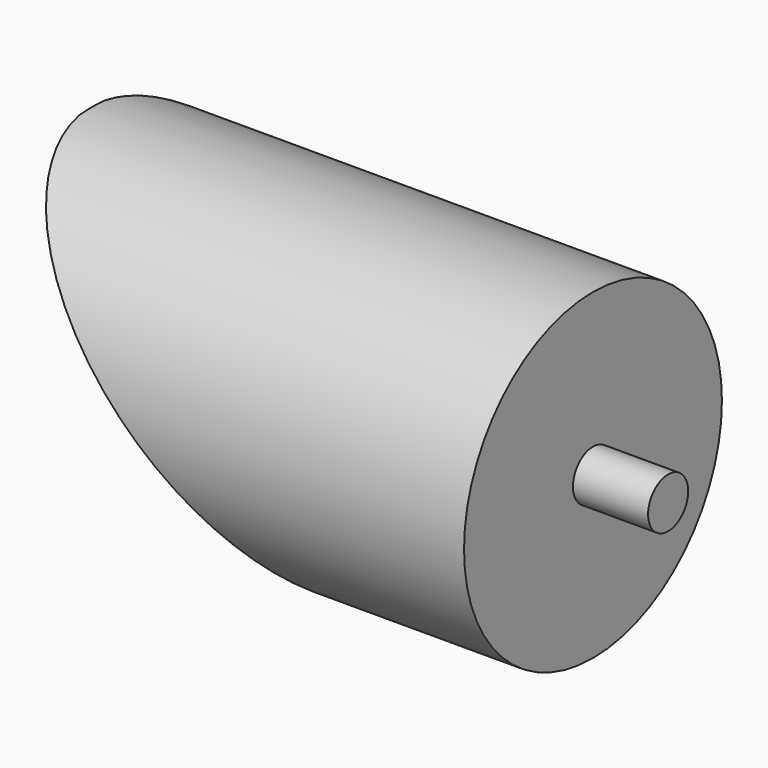
from build123d import *

# Parameters (mm, degrees)
F0_R     = 12.87
F1_DEPTH = 40
F3_DEPTH = 15
F4_R     = 2
F5_DEPTH = 6


with BuildPart() as f1:
    # F0 (on Right) → F1 (new body)
    with BuildSketch(Plane.YZ):
        Circle(F0_R)
    extrude(amount=-F1_DEPTH)

    # F2 (on Front) → F3 (cut, symmetric)
    with BuildSketch(Plane.XZ):
        Polygon((-14.022035, -13.172213), (-40.083185, 12.888939), (-40.083185, -13.172213), align=None)
    extrude(amount=F3_DEPTH, both=True, mode=Mode.SUBTRACT)

    # F4 (on face) → F5 (join)
    with BuildSketch(Plane.YZ):
        Circle(F4_R)
    extrude(amount=F5_DEPTH)


solid = f1.part
